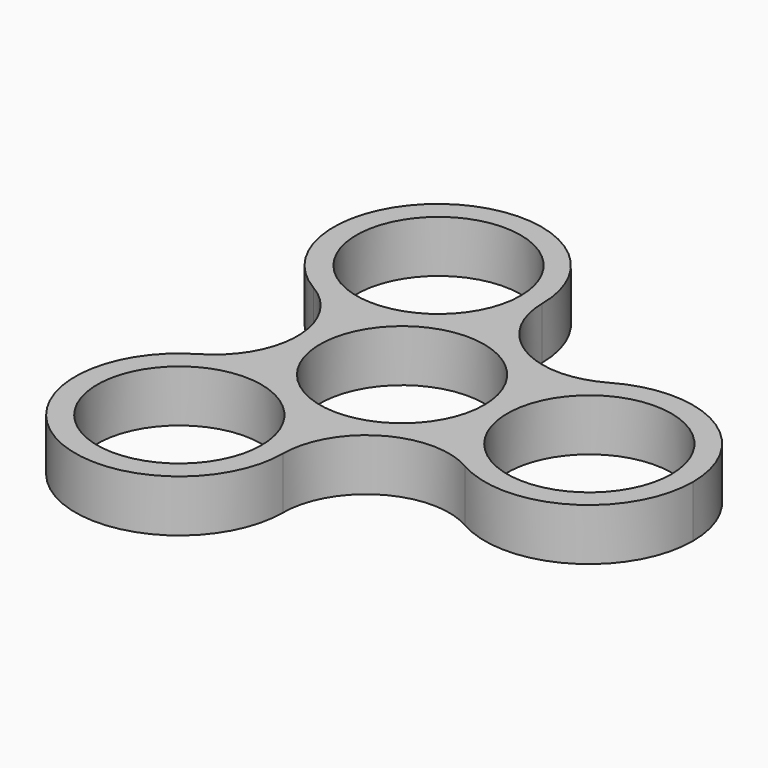
from build123d import *

# Parameters (mm, degrees)
F0_R     = 11.05
F0_R_2   = 12.05
F1_DEPTH = 7


with BuildPart() as f1:
    # F0 (on Top) → F1 (new body)
    with BuildSketch(Plane.XY):
        with BuildLine():
            ThreePointArc((-19.6141475717, -9.6901079415), (-5.583414478, -9.636562514), (1.4474547455, -21.7786882019))
            ThreePointArc((1.4474547455, -21.7786882019), (1.4474415497, -21.7979100961), (1.4474019625, -21.8171319541))
            ThreePointArc((1.4474019625, -21.8171319541), (7.0306179664, -12.1642790473), (18.1817906454, -12.1293782071))
            ThreePointArc((18.1817906454, -12.1293782071), (11.1200166899, 0.0140422376), (18.1533267456, 12.1739707389))
            ThreePointArc((18.1533267456, 12.1739707389), (7.0021029073, 12.1827511798), (1.3962915536, 21.8224995817))
            ThreePointArc((1.3962915536, 21.8224995817), (1.3964274836, 21.786881263), (1.3964727937, 21.7512627137))
            ThreePointArc((1.3964727937, 21.7512627137), (-5.6201804529, 9.6173075415), (-19.6367940808, 9.6461746483))
            ThreePointArc((-19.6367940808, 9.6461746483), (-14.0687862465, -0.0154586993), (-19.6141475717, -9.6901079415))
        make_face()
        Circle(F0_R, mode=Mode.SUBTRACT)
        with BuildLine():
            ThreePointArc((1.3962915536, 21.8224995817), (-19.61772235, 33.8674117094), (-19.6367940808, 9.6461746483))
            ThreePointArc((-19.6367940808, 9.6461746483), (-5.6201804529, 9.6173075415), (1.3964727937, 21.7512627137))
            ThreePointArc((1.3964727937, 21.7512627137), (1.3964274836, 21.786881263), (1.3962915536, 21.8224995817))
        make_face()
        with Locations((-12.5371698712, 21.8053191469)):
            Circle(F0_R_2, mode=Mode.SUBTRACT)
        with BuildLine():
            ThreePointArc((1.4474019625, -21.8171319541), (1.4474415497, -21.7979100961), (1.4474547455, -21.7786882019))
            ThreePointArc((1.4474547455, -21.7786882019), (-5.583414478, -9.636562514), (-19.6141475717, -9.6901079415))
            ThreePointArc((-19.6141475717, -9.6901079415), (-19.538340509, -33.9112338813), (1.4474019625, -21.8171319541))
        make_face()
        with Locations((-12.5525452545, -21.7786882019)):
            Circle(F0_R_2, mode=Mode.SUBTRACT)
        with BuildLine():
            ThreePointArc((18.1533267456, 12.1739707389), (11.1200166899, 0.0140422376), (18.1817906454, -12.1293782071))
            ThreePointArc((18.1817906454, -12.1293782071), (32.1508310015, -12.0760682174), (39.1200070881, 0.0304389213))
            ThreePointArc((39.1200070881, 0.0304389213), (32.1366471389, 12.1451721993), (18.1533267456, 12.1739707389))
        make_face()
        with Locations((25.2, 0)):
            Circle(F0_R_2, mode=Mode.SUBTRACT)
        with Locations((-12.5371698712, 21.8053191469)):
            Circle(F0_R_2)
        with Locations((-12.5371698712, 21.8053191469)):
            Circle(F0_R, mode=Mode.SUBTRACT)
        with Locations((-12.5525452545, -21.7786882019)):
            Circle(F0_R_2)
        with Locations((-12.5525452545, -21.7786882019)):
            Circle(F0_R, mode=Mode.SUBTRACT)
        with Locations((25.2, 0)):
            Circle(F0_R_2)
        with Locations((25.2, 0)):
            Circle(F0_R, mode=Mode.SUBTRACT)
    extrude(amount=F1_DEPTH)


solid = f1.part
